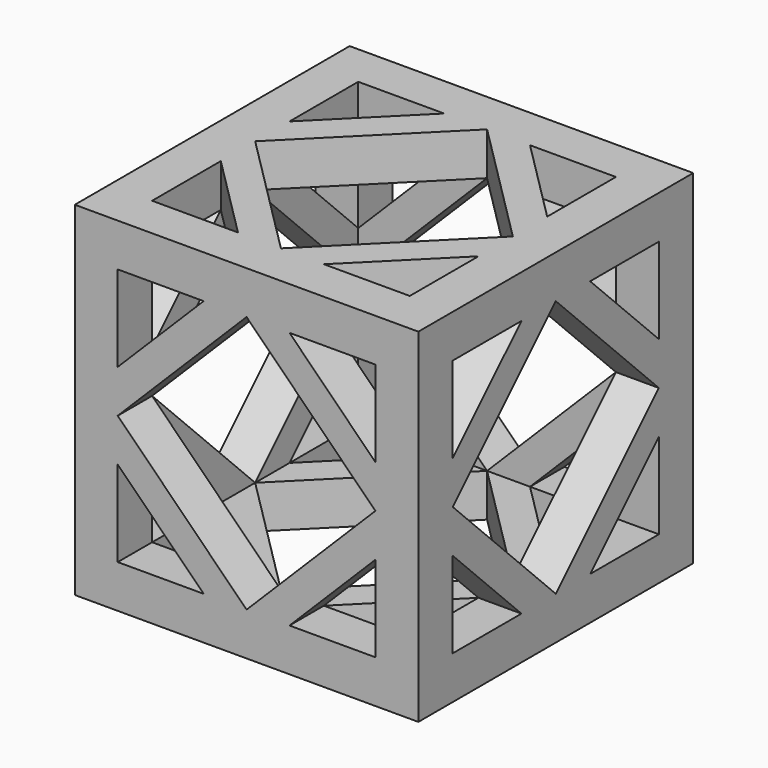
from build123d import *

# Parameters (mm, degrees)
F0_W      = 25.4
F0_H      = 25.4
F1_DEPTH  = 25.4
F2_W      = 19.05
F2_H      = 19.05
F3_DEPTH  = 25.4
F4_W      = 19.05
F4_H      = 19.05
F5_DEPTH  = 25.4
F6_W      = 19.05
F6_H      = 19.05
F7_DEPTH  = 25.4
F9_DEPTH  = 3.175
F11_DEPTH = 3.175
F13_DEPTH = 3.175
F15_DEPTH = 3.175
F17_DEPTH = 3.175
F19_DEPTH = 3.175


with BuildPart() as f1:
    # F0 (on Front) → F1 (new body)
    with BuildSketch(Plane.XZ):
        with Locations((-4.7539575025, 3.3169323578)):
            Rectangle(F0_W, F0_H)
    extrude(amount=F1_DEPTH)

    # F2 (on face) → F3 (cut)
    with BuildSketch(Plane.XZ.offset(25.4)):
        with Locations((-4.7539575025, 3.3169323578)):
            Rectangle(F2_W, F2_H)
    extrude(amount=-F3_DEPTH, mode=Mode.SUBTRACT)

    # F4 (on face) → F5 (cut)
    with BuildSketch(Plane.YZ.offset(7.9460424975)):
        with Locations((-12.7, 3.3169323578)):
            Rectangle(F4_W, F4_H)
    extrude(amount=-F5_DEPTH, mode=Mode.SUBTRACT)

    # F6 (on face) → F7 (cut)
    with BuildSketch(Plane.XY.offset(16.0169323578)):
        with Locations((-4.7539575025, -12.7)):
            Rectangle(F6_W, F6_H)
    extrude(amount=-F7_DEPTH, mode=Mode.SUBTRACT)

    # F8 (on Front) → F9 (join)
    with BuildSketch(Plane.XZ):
        Polygon((7.9460424975, 3.3169323578), (-4.7539575025, 16.0169323578), (-17.4539575025, 3.3169323578), (-4.7539575025, -9.3830676422), align=None)
        Polygon((-14.2789575025, 3.3169323578), (-4.7539575025, 12.8419323578), (4.7710424975, 3.3169323578), (-4.7539575025, -6.2080676422), align=None, mode=Mode.SUBTRACT)
    extrude(amount=F9_DEPTH)

    # F10 (on face) → F11 (join)
    with BuildSketch(Plane.YZ.offset(7.9460424975)):
        Polygon((0, 3.3169323578), (-12.7, 16.0169323578), (-25.4, 3.3169323578), (-12.7, -9.3830676422), align=None)
        Polygon((-22.225, 3.3169323578), (-12.7, 12.8419323578), (-3.175, 3.3169323578), (-12.7, -6.2080676422), align=None, mode=Mode.SUBTRACT)
    extrude(amount=-F11_DEPTH)

    # F12 (on face) → F13 (join)
    with BuildSketch(Plane.XY.offset(16.0169323578)):
        Polygon((7.9460424975, -12.7), (-4.7539575025, 0), (-17.4539575025, -12.7), (-4.7539575025, -25.4), align=None)
        Polygon((-14.2789575025, -12.7), (-4.7539575025, -3.175), (4.7710424975, -12.7), (-4.7539575025, -22.225), align=None, mode=Mode.SUBTRACT)
    extrude(amount=-F13_DEPTH)

    # F14 (on face) → F15 (join)
    with BuildSketch(Plane(origin=(-17.4539575025, 0, 0), x_dir=(0, -1, 0), z_dir=(-1, 0, 0))):
        Polygon((25.4, 3.3169323578), (12.7, 16.0169323578), (0, 3.3169323578), (12.7, -9.3830676422), align=None)
        Polygon((3.175, 3.3169323578), (12.7, 12.8419323578), (22.225, 3.3169323578), (12.7, -6.2080676422), align=None, mode=Mode.SUBTRACT)
    extrude(amount=-F15_DEPTH)

    # F16 (on face) → F17 (join)
    with BuildSketch(Plane.XZ.offset(25.4)):
        Polygon((7.9460424975, 3.3169323578), (-4.7539575025, 16.0169323578), (-17.4539575025, 3.3169323578), (-4.7539575025, -9.3830676422), align=None)
        Polygon((-14.2789575025, 3.3169323578), (-4.7539575025, 12.8419323578), (4.7710424975, 3.3169323578), (-4.7539575025, -6.2080676422), align=None, mode=Mode.SUBTRACT)
    extrude(amount=-F17_DEPTH)

    # F18 (on face) → F19 (join)
    with BuildSketch(Plane(origin=(0, 0, -9.3830676422), x_dir=(1, 0, 0), z_dir=(0, 0, -1))):
        Polygon((7.9460424975, 12.7), (-4.7539575025, 25.4), (-17.4539575025, 12.7), (-4.7539575025, 0), align=None)
        Polygon((-14.2789575025, 12.7), (-4.7539575025, 22.225), (4.7710424975, 12.7), (-4.7539575025, 3.175), align=None, mode=Mode.SUBTRACT)
    extrude(amount=-F19_DEPTH)


solid = f1.part
